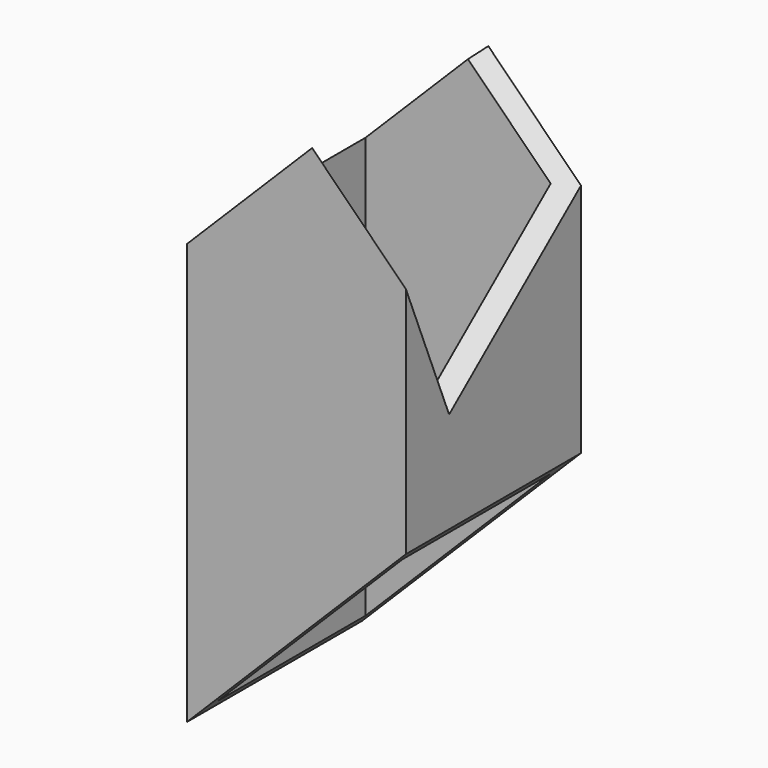
from build123d import *

# Parameters (mm, degrees)
F0_W      = 26
F0_H      = 26
F0_W_2    = 22
F0_H_2    = 22
F1_DEPTH  = 75
F5_DEPTH  = 26.001
F9_DEPTH  = 44.548727
F11_DEPTH = 26.001


with BuildPart() as f1:
    # F0 (on Top) → F1 (new body)
    with BuildSketch(Plane.XY):
        Rectangle(F0_W, F0_H)
        Rectangle(F0_W_2, F0_H_2, mode=Mode.SUBTRACT)
    extrude(amount=F1_DEPTH)

    # F2 (on face) → F5 (cut, through all)
    with BuildSketch(Plane.XZ.offset(13)):
        Polygon((13, 26), (-13, 0), (13, 0), align=None)
    extrude(amount=-F5_DEPTH, mode=Mode.SUBTRACT)

    # F8 (on face) → F9 (cut, through all)
    with BuildSketch(Plane(origin=(-12.5, 0, 12.5), x_dir=(0, 1, 0), z_dir=(0.707107, 0, -0.707107))):
        Polygon((-13, 47.179355), (-6.58165, 36.062446), (13, 47.367917), (13, 69.708109), (-13, 69.708109), align=None)
    extrude(amount=-F9_DEPTH, mode=Mode.SUBTRACT)

    # F10 (on face) → F11 (cut, through all)
    with BuildSketch(Plane.XZ.offset(13)):
        Polygon((-13, 87.199546), (-13, 50), (20.817262, 83.817262), (20.817262, 87.199546), align=None)
    extrude(amount=-F11_DEPTH, mode=Mode.SUBTRACT)


solid = f1.part
